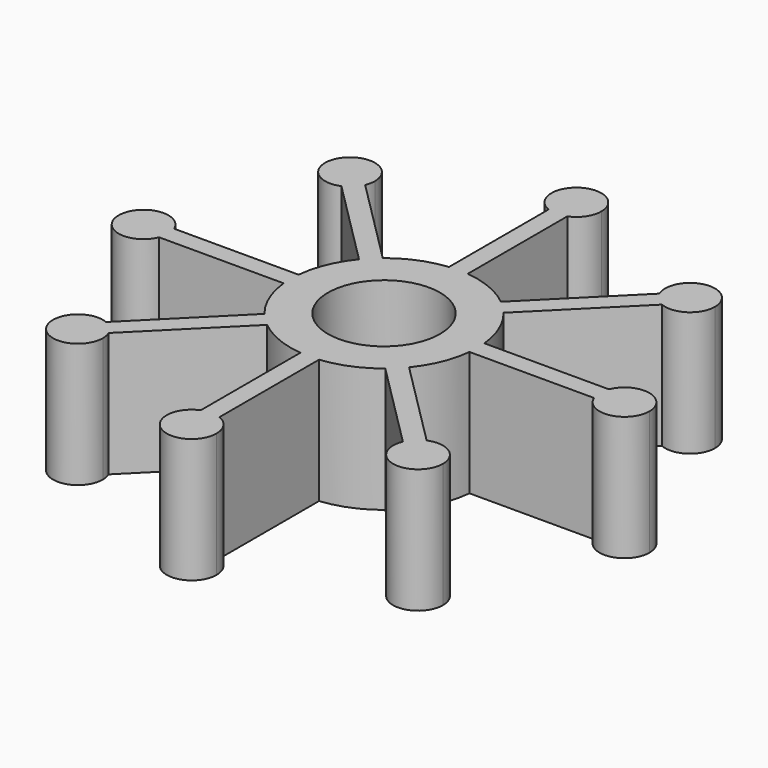
from build123d import *

# Parameters (mm, degrees)
F1_DEPTH = 20
F2_R     = 9
F3_DEPTH = 20.001


with BuildPart() as f1:
    # F0 (on Top) → F1 (new body)
    with BuildSketch(Plane.XY):
        with BuildLine():
            ThreePointArc((14.924812, -1.5), (14.981191, -0.750942), (15, 0))
            ThreePointArc((15, 0), (14.981191, 0.750942), (14.924812, 1.5))
            ThreePointArc((14.924812, 1.5), (13.858193, 5.740251), (11.614096, 9.492775))
            ThreePointArc((11.614096, 9.492775), (10.606602, 10.606602), (9.492775, 11.614096))
            ThreePointArc((9.492775, 11.614096), (5.740251, 13.858193), (1.5, 14.924812))
            ThreePointArc((1.5, 14.924812), (0, 15), (-1.5, 14.924812))
            ThreePointArc((-1.5, 14.924812), (-5.740251, 13.858193), (-9.492775, 11.614096))
            ThreePointArc((-9.492775, 11.614096), (-10.606602, 10.606602), (-11.614096, 9.492775))
            ThreePointArc((-11.614096, 9.492775), (-13.858193, 5.740251), (-14.924812, 1.5))
            ThreePointArc((-14.924812, 1.5), (-15, 0), (-14.924812, -1.5))
            ThreePointArc((-14.924812, -1.5), (-13.858193, -5.740251), (-11.614096, -9.492775))
            ThreePointArc((-11.614096, -9.492775), (-10.606602, -10.606602), (-9.492775, -11.614096))
            ThreePointArc((-9.492775, -11.614096), (-5.740251, -13.858193), (-1.5, -14.924812))
            ThreePointArc((-1.5, -14.924812), (0, -15), (1.5, -14.924812))
            ThreePointArc((1.5, -14.924812), (5.740251, -13.858193), (9.492775, -11.614096))
            ThreePointArc((9.492775, -11.614096), (10.606602, -10.606602), (11.614096, -9.492775))
            ThreePointArc((11.614096, -9.492775), (13.858193, -5.740251), (14.924812, -1.5))
        make_face()
        with BuildLine():
            ThreePointArc((14.924812, 1.5), (14.981191, 0.750942), (15, 0))
            ThreePointArc((15, 0), (14.981191, -0.750942), (14.924812, -1.5))
            Line((14.924812, -1.5), (34.924812, -1.5))
            ThreePointArc((34.924812, -1.5), (34.632911, 0), (34.924812, 1.5))
            Line((34.924812, 1.5), (14.924812, 1.5))
        make_face()
        with BuildLine():
            ThreePointArc((9.492775, 11.614096), (10.606602, 10.606602), (11.614096, 9.492775))
            Line((11.614096, 9.492775), (25.756231, 23.634911))
            ThreePointArc((25.756231, 23.634911), (24.489166, 24.489166), (23.634911, 25.756231))
            Line((23.634911, 25.756231), (9.492775, 11.614096))
        make_face()
        with BuildLine():
            ThreePointArc((42.632911, 0), (39.39698, 3.926347), (34.924812, 1.5))
            ThreePointArc((34.924812, 1.5), (34.632911, 0), (34.924812, -1.5))
            ThreePointArc((34.924812, -1.5), (39.39698, -3.926347), (42.632911, 0))
        make_face()
        with BuildLine():
            Line((25.756231, -23.634911), (11.614096, -9.492775))
            ThreePointArc((11.614096, -9.492775), (10.606602, -10.606602), (9.492775, -11.614096))
            Line((9.492775, -11.614096), (23.634911, -25.756231))
            ThreePointArc((23.634911, -25.756231), (24.489166, -24.489166), (25.756231, -23.634911))
        make_face()
        with BuildLine():
            ThreePointArc((23.634911, 25.756231), (24.489166, 24.489166), (25.756231, 23.634911))
            ThreePointArc((25.756231, 23.634911), (29.526049, 23.982518), (31.317593, 27.317593))
            ThreePointArc((31.317593, 27.317593), (26.520953, 31.237461), (23.634911, 25.756231))
        make_face()
        with BuildLine():
            ThreePointArc((31.317593, -27.317593), (29.526049, -23.982518), (25.756231, -23.634911))
            ThreePointArc((25.756231, -23.634911), (24.489166, -24.489166), (23.634911, -25.756231))
            ThreePointArc((23.634911, -25.756231), (26.520953, -31.237461), (31.317593, -27.317593))
        make_face()
        with BuildLine():
            ThreePointArc((-1.5, 14.924812), (0, 15), (1.5, 14.924812))
            Line((1.5, 14.924812), (1.5, 34.924812))
            ThreePointArc((1.5, 34.924812), (0, 34.632911), (-1.5, 34.924812))
            Line((-1.5, 34.924812), (-1.5, 14.924812))
        make_face()
        with BuildLine():
            Line((1.5, -34.924812), (1.5, -14.924812))
            ThreePointArc((1.5, -14.924812), (0, -15), (-1.5, -14.924812))
            Line((-1.5, -14.924812), (-1.5, -34.924812))
            ThreePointArc((-1.5, -34.924812), (0, -34.632911), (1.5, -34.924812))
        make_face()
        with BuildLine():
            ThreePointArc((-1.5, 34.924812), (0, 34.632911), (1.5, 34.924812))
            ThreePointArc((1.5, 34.924812), (3.316625, 36.396843), (4, 38.632911))
            ThreePointArc((4, 38.632911), (-2.236068, 41.949536), (-1.5, 34.924812))
        make_face()
        with BuildLine():
            ThreePointArc((4, -38.632911), (3.316625, -36.396843), (1.5, -34.924812))
            ThreePointArc((1.5, -34.924812), (0, -34.632911), (-1.5, -34.924812))
            ThreePointArc((-1.5, -34.924812), (-2.236068, -41.949536), (4, -38.632911))
        make_face()
        with BuildLine():
            ThreePointArc((-11.614096, 9.492775), (-10.606602, 10.606602), (-9.492775, 11.614096))
            Line((-9.492775, 11.614096), (-23.634911, 25.756231))
            ThreePointArc((-23.634911, 25.756231), (-24.489166, 24.489166), (-25.756231, 23.634911))
            Line((-25.756231, 23.634911), (-11.614096, 9.492775))
        make_face()
        with BuildLine():
            Line((-23.634911, -25.756231), (-9.492775, -11.614096))
            ThreePointArc((-9.492775, -11.614096), (-10.606602, -10.606602), (-11.614096, -9.492775))
            Line((-11.614096, -9.492775), (-25.756231, -23.634911))
            ThreePointArc((-25.756231, -23.634911), (-24.489166, -24.489166), (-23.634911, -25.756231))
        make_face()
        with BuildLine():
            ThreePointArc((-25.756231, 23.634911), (-24.489166, 24.489166), (-23.634911, 25.756231))
            ThreePointArc((-23.634911, 25.756231), (-23.397725, 26.520953), (-23.317593, 27.317593))
            ThreePointArc((-23.317593, 27.317593), (-30.652668, 29.526049), (-25.756231, 23.634911))
        make_face()
        with BuildLine():
            ThreePointArc((-23.317593, -27.317593), (-23.397725, -26.520953), (-23.634911, -25.756231))
            ThreePointArc((-23.634911, -25.756231), (-24.489166, -24.489166), (-25.756231, -23.634911))
            ThreePointArc((-25.756231, -23.634911), (-30.652668, -29.526049), (-23.317593, -27.317593))
        make_face()
        with BuildLine():
            ThreePointArc((-14.924812, -1.5), (-15, 0), (-14.924812, 1.5))
            Line((-14.924812, 1.5), (-34.924812, 1.5))
            ThreePointArc((-34.924812, 1.5), (-34.706564, 0.764069), (-34.632911, 0))
            ThreePointArc((-34.632911, 0), (-34.706564, -0.764069), (-34.924812, -1.5))
            Line((-34.924812, -1.5), (-14.924812, -1.5))
        make_face()
        with BuildLine():
            ThreePointArc((-34.632911, 0), (-34.706564, 0.764069), (-34.924812, 1.5))
            ThreePointArc((-34.924812, 1.5), (-42.632911, 0), (-34.924812, -1.5))
            ThreePointArc((-34.924812, -1.5), (-34.706564, -0.764069), (-34.632911, 0))
        make_face()
    extrude(amount=F1_DEPTH)

    # F2 (on face) → F3 (cut, through all)
    with BuildSketch(Plane.XY.offset(20)):
        Circle(F2_R)
    extrude(amount=-F3_DEPTH, mode=Mode.SUBTRACT)


solid = f1.part
